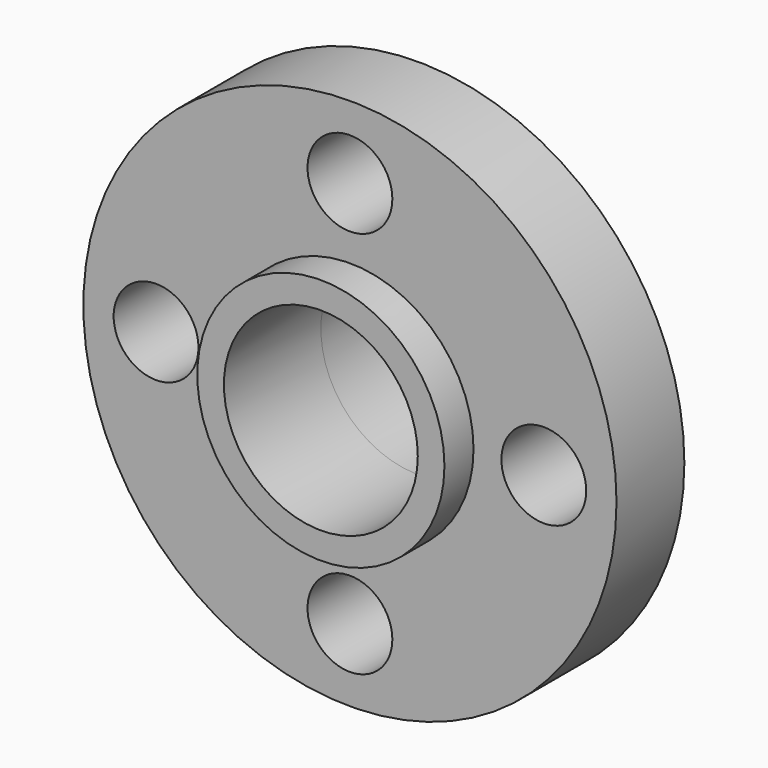
from build123d import *

# Parameters (mm, degrees)
F0_R        = 11
F0_R_2      = 1.75
F0_R_3      = 5.1
F1_DEPTH    = 3.5
F0_R_4      = 4
F2_DEPTH    = 5
F2_FACE_R   = 5.1
F2_FACE_R_2 = 4
F3_DEPTH    = 10


with BuildPart() as f1:
    # F0 (on Front) → F1 (new body)
    with BuildSketch(Plane.XZ):
        Circle(F0_R)
        with Locations((0, -8)):
            Circle(F0_R_2, mode=Mode.SUBTRACT)
        with Locations((-8, 0)):
            Circle(F0_R_2, mode=Mode.SUBTRACT)
        Circle(F0_R_3, mode=Mode.SUBTRACT)
        with Locations((8, 0)):
            Circle(F0_R_2, mode=Mode.SUBTRACT)
        with Locations((0, 8)):
            Circle(F0_R_2, mode=Mode.SUBTRACT)
    extrude(amount=F1_DEPTH)

    # F0 (on Front) → F2 (join)
    with BuildSketch(Plane.XZ):
        Circle(F0_R_3)
        Circle(F0_R_4, mode=Mode.SUBTRACT)
    extrude(amount=F2_DEPTH)

    # F2_face (on face) → F3 (join)
    with BuildSketch(Plane.XZ.offset(5)):
        Circle(F2_FACE_R)
        Circle(F2_FACE_R_2, mode=Mode.SUBTRACT)
    extrude(amount=-F3_DEPTH)


solid = f1.part
